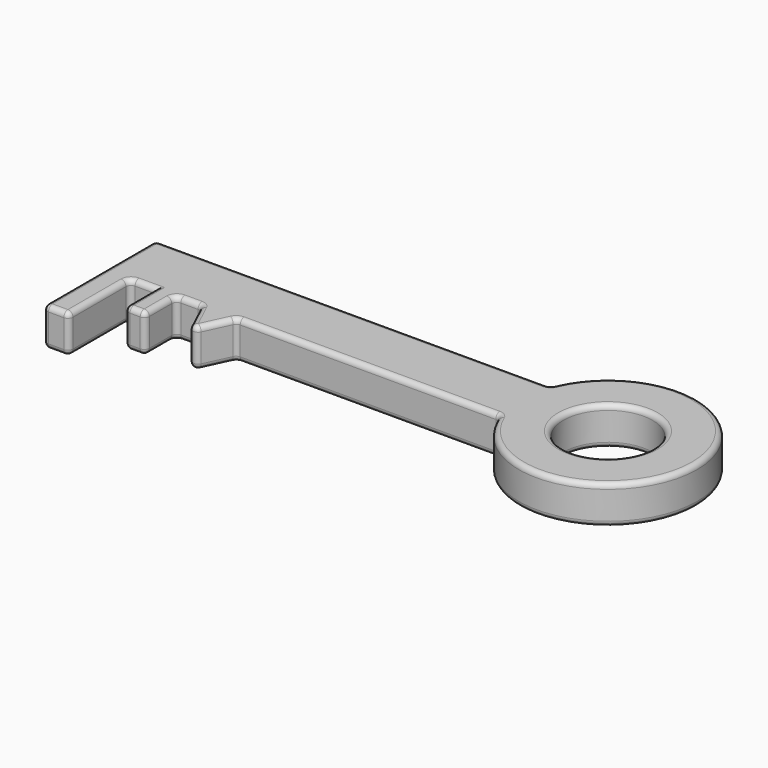
from build123d import *

# Parameters (mm, degrees)
F0_R     = 17.5
F1_DEPTH = 15
F2_R     = 2


with BuildPart() as f1:
    # F0 (on Top) → F1 (new body)
    with BuildSketch(Plane.XY):
        with BuildLine():
            Line((81.750128, 29.35), (-73.249872, 29.35))
            Line((-73.249872, 29.35), (-73.249872, 4.35))
            Line((-73.249872, 4.35), (-73.249872, -25.65))
            Line((-73.249872, -25.65), (-63.249872, -25.65))
            Line((-63.249872, -25.65), (-63.249872, 4.35))
            Line((-63.249872, 4.35), (-53.249872, 4.35))
            Line((-53.249872, 4.35), (-53.249872, -10.65))
            Line((-53.249872, -10.65), (-45.249872, -10.65))
            Line((-45.249872, -10.65), (-45.249872, 4.35))
            Line((-45.249872, 4.35), (-35.249872, 4.35))
            Line((-35.249872, 4.35), (-28.250001, -10.65))
            Line((-28.250001, -10.65), (-21.249872, 4.35))
            Line((-21.249872, 4.35), (81.750128, 4.35))
            ThreePointArc((81.750128, 4.35), (149.44187, 16.85), (81.750128, 29.35))
        make_face()
        with Locations((114.44187, 16.85)):
            Circle(F0_R, mode=Mode.SUBTRACT)
    extrude(amount=F1_DEPTH)

    # F2
    f2_edges = [f1.edges().sort_by_distance(p)[0] for p in [
        (4.250128, 29.35, 15),
        (-73.249872, 1.85, 15),
        (-63.249872, -10.65, 15),
        (-68.249872, -25.65, 15),
        (-58.249872, 4.35, 15),
        (-53.249872, -3.15, 15),
        (-45.249872, -3.15, 15),
        (-49.249872, -10.65, 15),
        (-40.249872, 4.35, 15),
        (30.250128, 4.35, 15),
        (149.44187, 16.85, 15),
        (96.94187, 16.85, 15),
        (81.750128, 29.35, 7.5),
        (-73.249872, 29.35, 7.5),
        (4.250128, 29.35, 0),
        (149.44187, 16.85, 0),
        (-35.249872, 4.35, 7.5),
        (-28.250001, -10.65, 7.5),
        (-31.749937, -3.15, 0),
        (-31.749937, -3.15, 15),
        (-21.249872, 4.35, 7.5),
        (-63.249872, -25.65, 7.5),
        (-53.249872, -10.65, 7.5),
        (-73.249872, -25.65, 7.5),
        (81.750128, 4.35, 7.5),
        (30.250128, 4.35, 0),
        (96.94187, 16.85, 0),
        (-68.249872, -25.65, 0),
        (-49.249872, -10.65, 0),
        (-24.749937, -3.15, 0),
        (-73.249872, 1.85, 0),
        (131.94187, 16.85, 7.5),
        (-24.749937, -3.15, 15),
        (-63.249872, -10.65, 0),
        (-40.249872, 4.35, 0),
        (-53.249872, -3.15, 0),
        (-45.249872, -3.15, 0),
        (-58.249872, 4.35, 0),
        (-45.249872, -10.65, 7.5),
        (-45.249872, 4.35, 7.5),
        (-63.249872, 4.35, 7.5),
    ]]
    fillet(f2_edges, radius=F2_R)


solid = f1.part
